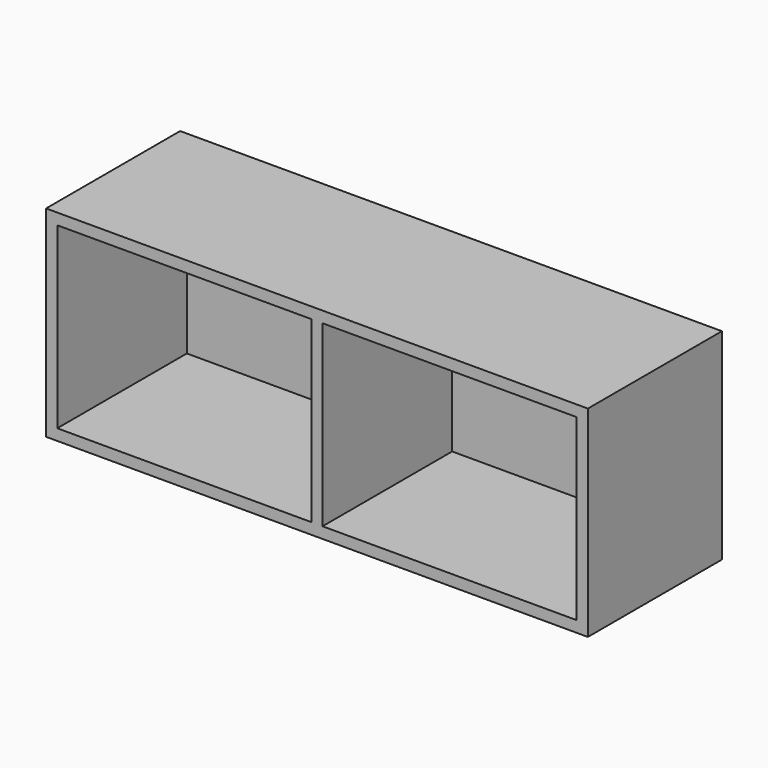
from build123d import *

# Parameters (mm, degrees)
F0_W     = 970
F0_H     = 300
F1_DEPTH = 360
F2_W     = 455
F2_H     = 320
F3_DEPTH = 290
F4_W     = 455
F4_H     = 320
F5_DEPTH = 290


with BuildPart() as f1:
    # F0 (on Top) → F1 (new body)
    with BuildSketch(Plane.XY):
        with Locations((245.651422, -91.493237)):
            Rectangle(F0_W, F0_H)
    extrude(amount=F1_DEPTH)

    # F2 (on face) → F3 (cut)
    with BuildSketch(Plane.XZ.offset(241.493237)):
        with Locations((8.151422, 180)):
            Rectangle(F2_W, F2_H)
    extrude(amount=-F3_DEPTH, mode=Mode.SUBTRACT)

    # F4 (on face) → F5 (cut)
    with BuildSketch(Plane.XZ.offset(241.493237)):
        with Locations((483.151422, 180)):
            Rectangle(F4_W, F4_H)
    extrude(amount=-F5_DEPTH, mode=Mode.SUBTRACT)


solid = f1.part
